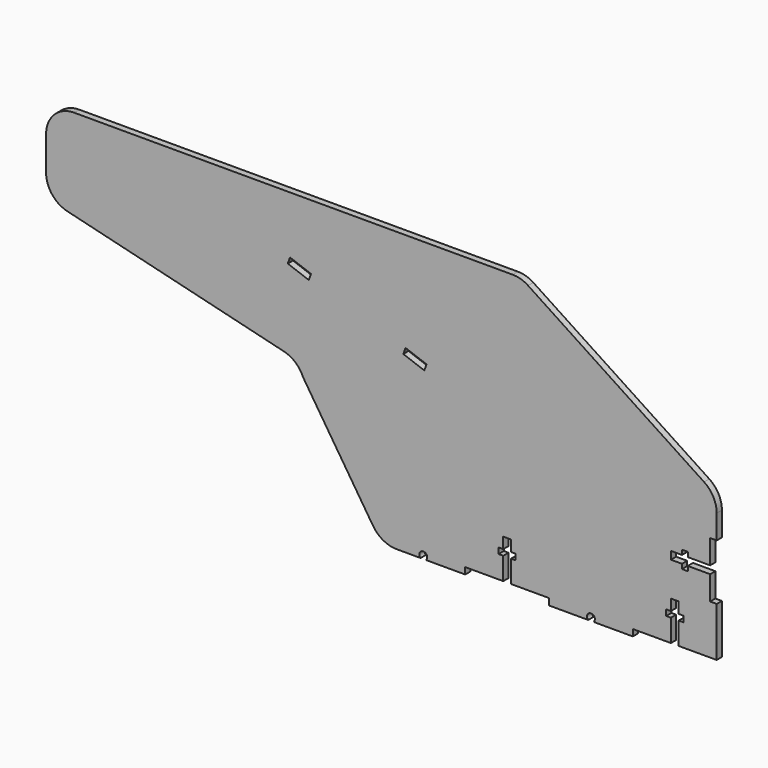
from build123d import *

# Parameters (mm, degrees)
F1_DEPTH = 2.9718


with BuildPart() as f1:
    # F0 (on Front) → F1 (new body)
    with BuildSketch(Plane.XZ):
        with BuildLine():
            Line((135.1153, -60.5282), (152.4, -60.5282))
            Line((152.4, -60.5282), (152.4, -38.1))
            Line((152.4, -38.1), (149.4282, -38.1))
            Line((149.4282, -38.1), (149.4282, -27.1653))
            Line((149.4282, -27.1653), (139.2682, -27.1653))
            Line((139.2682, -27.1653), (139.2682, -29.2862))
            Line((139.2682, -29.2862), (136.6266, -29.2862))
            Line((136.6266, -29.2862), (136.6266, -27.1653))
            Line((136.6266, -27.1653), (131.5974, -27.1653))
            Line((131.5974, -27.1653), (131.5974, -23.6347))
            Line((131.5974, -23.6347), (136.6266, -23.6347))
            Line((136.6266, -23.6347), (136.6266, -21.5138))
            Line((136.6266, -21.5138), (139.2682, -21.5138))
            Line((139.2682, -21.5138), (139.2682, -23.6347))
            Line((139.2682, -23.6347), (149.4282, -23.6347))
            Line((149.4282, -23.6347), (149.4282, -12.7))
            Line((149.4282, -12.7), (152.4, -12.7))
            Line((152.4, -12.7), (152.4, -1.771027))
            ThreePointArc((152.4, -1.771027), (150.877363, 4.258612), (146.674559, 8.842433))
            Line((146.674559, 8.842433), (66.67517, 61.41346))
            ThreePointArc((66.67517, 61.41346), (63.340602, 62.967188), (59.700611, 63.5))
            Line((59.700611, 63.5), (-139.7, 63.5))
            ThreePointArc((-139.7, 63.5), (-148.680256, 59.780256), (-152.4, 50.8))
            Line((-152.4, 50.8), (-152.4, 35.369483))
            ThreePointArc((-152.4, 35.369483), (-149.689715, 27.52757), (-142.715654, 23.032715))
            Line((-142.715654, 23.032715), (-44.337678, -1.015234))
            ThreePointArc((-44.337678, -1.015234), (-39.095537, -3.703229), (-35.630256, -8.467386))
            Line((-35.630256, -8.467386), (-3.751196, -57.696563))
            ThreePointArc((-3.751196, -57.696563), (0.838391, -61.948701), (6.901284, -63.493472))
            Line((6.901284, -63.493472), (17.805659, -63.5))
            ThreePointArc((17.805659, -63.5), (19.05, -60.452), (20.294341, -63.5))
            Line((20.294341, -63.5), (38.1, -63.5))
            Line((38.1, -63.5), (38.1, -60.5282))
            Line((38.1, -60.5282), (55.3847, -60.5282))
            Line((55.3847, -60.5282), (55.3847, -50.3682))
            Line((55.3847, -50.3682), (53.2638, -50.3682))
            Line((53.2638, -50.3682), (53.2638, -47.7266))
            Line((53.2638, -47.7266), (55.3847, -47.7266))
            Line((55.3847, -47.7266), (55.3847, -42.6974))
            Line((55.3847, -42.6974), (58.9153, -42.6974))
            Line((58.9153, -42.6974), (58.9153, -47.7266))
            Line((58.9153, -47.7266), (61.0362, -47.7266))
            Line((61.0362, -47.7266), (61.0362, -50.3682))
            Line((61.0362, -50.3682), (58.9153, -50.3682))
            Line((58.9153, -50.3682), (58.9153, -60.5282))
            Line((58.9153, -60.5282), (76.2, -60.5282))
            Line((76.2, -60.5282), (76.2, -63.5))
            Line((76.2, -63.5), (94.005659, -63.5))
            ThreePointArc((94.005659, -63.5), (95.25, -60.452), (96.494341, -63.5))
            Line((96.494341, -63.5), (114.3, -63.5))
            Line((114.3, -63.5), (114.3, -60.5282))
            Line((114.3, -60.5282), (131.5847, -60.5282))
            Line((131.5847, -60.5282), (131.5847, -50.3682))
            Line((131.5847, -50.3682), (129.4638, -50.3682))
            Line((129.4638, -50.3682), (129.4638, -47.7266))
            Line((129.4638, -47.7266), (131.5847, -47.7266))
            Line((131.5847, -47.7266), (131.5847, -42.6974))
            Line((131.5847, -42.6974), (135.1153, -42.6974))
            Line((135.1153, -42.6974), (135.1153, -47.7266))
            Line((135.1153, -47.7266), (137.2362, -47.7266))
            Line((137.2362, -47.7266), (137.2362, -50.3682))
            Line((137.2362, -50.3682), (135.1153, -50.3682))
            Line((135.1153, -50.3682), (135.1153, -60.5282))
        make_face()
        Polygon((-31.988177, 34.010913), (-33.004593, 31.218334), (-42.55187, 34.693259), (-41.535454, 37.485837), align=None, mode=Mode.SUBTRACT)
        Polygon((20.521846, 14.898827), (19.505431, 12.106248), (9.958154, 15.581173), (10.974569, 18.373752), align=None, mode=Mode.SUBTRACT)
    extrude(amount=F1_DEPTH)


solid = f1.part
